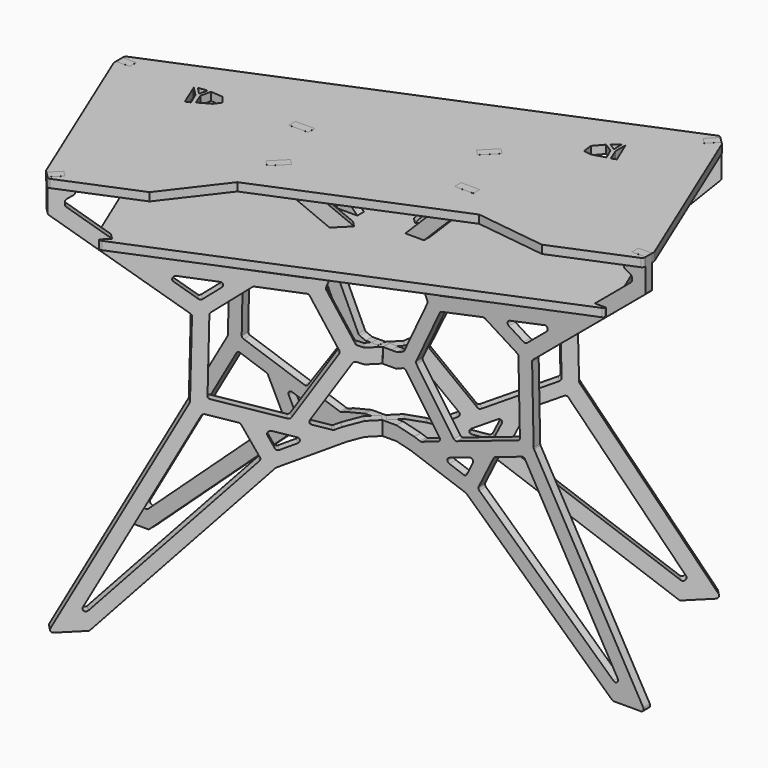
from build123d import *

# Parameters (mm, degrees)
F6_DEPTH  = 9.525
F7_DEPTH  = 9.525
F8_W      = 37.281513
F8_H      = 19.064931
F8_W_2    = 33.670588
F8_H_2    = 19.051635
F9_DEPTH  = 19.05
F10_DEPTH = 9.525
F11_DEPTH = 9.525
F13_DEPTH = 19.05


with BuildPart() as f6:
    # F4 (on face) → F6 (new body, symmetric)
    with BuildSketch(Plane(origin=(-60.899116, 60.899116, 0), x_dir=(-0.707107, -0.707107, 0), z_dir=(-0.707107, 0.707107, 0))):
        with BuildLine():
            ThreePointArc((-524.050759, -541.279179), (-524.021318, -547.612059), (-518.531923, -550.770031))
            Line((-518.531923, -550.770031), (-455.733476, -550.770031))
            ThreePointArc((-455.733476, -550.770031), (-453.422328, -550.334513), (-451.428203, -549.087698))
            Line((-451.428203, -549.087698), (-113.375128, -237.280804))
            ThreePointArc((-113.375128, -237.280804), (-112.346752, -236.509314), (-111.184061, -235.960765))
            Line((-111.184061, -235.960765), (17.108403, -190.661839))
            ThreePointArc((17.108403, -190.661839), (17.415521, -190.562105), (17.727311, -190.478113))
            Line((17.727311, -190.478113), (49.6691, -182.738825))
            Line((49.6691, -182.738825), (63.010707, -182.738825))
            Line((63.010707, -182.738825), (82.060707, -182.738825))
            Line((82.060707, -182.738825), (82.060707, -150.070156))
            Line((82.060707, -150.070156), (72.532403, -150.070156))
            Line((72.532403, -150.070156), (63.0041, -150.070156))
            Line((63.0041, -150.070156), (49.6691, -150.070156))
            Line((49.6691, -150.070156), (8.680172, -160.001506))
            ThreePointArc((8.680172, -160.001506), (8.368381, -160.085499), (8.061264, -160.185232))
            Line((8.061264, -160.185232), (-4.977376, -164.78906))
            ThreePointArc((-4.977376, -164.78906), (-7.049685, -165.151215), (-9.126592, -164.816437))
            Line((-9.126592, -164.816437), (-47.036335, -151.990897))
            ThreePointArc((-47.036335, -151.990897), (-51.032377, -147.963), (-50.213404, -142.348592))
            Line((-50.213404, -142.348592), (27.459192, -30.738162))
            ThreePointArc((27.459192, -30.738162), (30.889647, -28.270442), (35.109132, -28.501994))
            Line((35.109132, -28.501994), (49.6691, -34.555692))
            Line((49.6691, -34.555692), (63.0041, -34.555692))
            Line((63.0041, -34.555692), (82.060707, -34.555692))
            Line((82.060707, -34.555692), (82.060707, -17.363203))
            Line((82.060707, -17.363203), (90.203997, -17.363203))
            Line((90.203997, -17.363203), (90.203997, -34.555692))
            Line((90.203997, -34.555692), (109.253997, -34.555692))
            Line((109.253997, -34.555692), (122.588997, -34.555692))
            Line((122.588997, -34.555692), (137.148964, -28.501994))
            ThreePointArc((137.148964, -28.501994), (141.368449, -28.270442), (144.798905, -30.738162))
            Line((144.798905, -30.738162), (222.471501, -142.348592))
            ThreePointArc((222.471501, -142.348592), (223.290474, -147.963), (219.294432, -151.990897))
            Line((219.294432, -151.990897), (181.384688, -164.816437))
            ThreePointArc((181.384688, -164.816437), (179.307781, -165.151215), (177.235473, -164.78906))
            Line((177.235473, -164.78906), (164.196833, -160.185232))
            ThreePointArc((164.196833, -160.185232), (163.889715, -160.085499), (163.577925, -160.001506))
            Line((163.577925, -160.001506), (122.588997, -150.070156))
            Line((122.588997, -150.070156), (109.253997, -150.070156))
            Line((109.253997, -150.070156), (90.203997, -150.070156))
            Line((90.203997, -150.070156), (90.203997, -182.738825))
            Line((90.203997, -182.738825), (109.253997, -182.738825))
            Line((109.253997, -182.738825), (122.588997, -182.738825))
            Line((122.588997, -182.738825), (154.530785, -190.478113))
            ThreePointArc((154.530785, -190.478113), (154.842576, -190.562105), (155.149693, -190.661839))
            Line((155.149693, -190.661839), (283.442157, -235.960765))
            ThreePointArc((283.442157, -235.960765), (284.604848, -236.509314), (285.633225, -237.280804))
            Line((285.633225, -237.280804), (623.686299, -549.087698))
            ThreePointArc((623.686299, -549.087698), (625.680425, -550.334513), (627.991573, -550.770031))
            Line((627.991573, -550.770031), (690.790019, -550.770031))
            ThreePointArc((690.790019, -550.770031), (696.279414, -547.612059), (696.308855, -541.279179))
            Line((696.308855, -541.279179), (442.307693, -94.970124))
            ThreePointArc((442.307693, -94.970124), (441.704806, -93.51658), (441.477862, -91.959415))
            Line((441.477862, -91.959415), (437.901867, 82.485986))
            ThreePointArc((437.901867, 82.485986), (438.469635, 85.243622), (440.173857, 87.484724))
            Line((440.173857, 87.484724), (699.436917, 304.576421))
            ThreePointArc((699.436917, 304.576421), (701.113909, 306.758418), (701.710241, 309.445015))
            Line((701.710241, 309.445015), (701.710241, 382.679969))
            Line((701.710241, 382.679969), (669.960241, 382.679969))
            Line((669.960241, 382.679969), (669.960241, 363.629969))
            Line((669.960241, 363.629969), (650.910241, 363.629969))
            Line((650.910241, 363.629969), (650.910241, 348.246143))
            ThreePointArc((650.910241, 348.246143), (651.76098, 345.071143), (654.085241, 342.746882))
            Line((654.085241, 342.746882), (666.785241, 335.414534))
            ThreePointArc((666.785241, 335.414534), (669.109502, 333.090272), (669.960241, 329.915272))
            Line((669.960241, 329.915272), (669.960241, 324.270246))
            ThreePointArc((669.960241, 324.270246), (669.363909, 321.583649), (667.686917, 319.401652))
            Line((667.686917, 319.401652), (584.00339, 249.329969))
            Line((584.00339, 249.329969), (584.00339, 230.279969))
            Line((584.00339, 230.279969), (561.252813, 230.279969))
            Line((561.252813, 230.279969), (544.447581, 216.208252))
            ThreePointArc((544.447581, 216.208252), (543.146665, 215.365659), (541.680373, 214.86333))
            Line((541.680373, 214.86333), (224.215549, 147.959178))
            ThreePointArc((224.215549, 147.959178), (220.027078, 148.51285), (217.113075, 151.572006))
            Line((217.113075, 151.572006), (181.77823, 230.279969))
            Line((181.77823, 230.279969), (181.77823, 249.329969))
            Line((181.77823, 249.329969), (164.173635, 249.329969))
            Line((164.173635, 249.329969), (164.173635, 230.279969))
            Line((164.173635, 230.279969), (146.569041, 230.279969))
            Line((146.569041, 230.279969), (192.90485, 128.059493))
            ThreePointArc((192.90485, 128.059493), (193.471166, 125.397137), (192.870757, 122.742261))
            Line((192.870757, 122.742261), (139.352752, 8.592927))
            ThreePointArc((139.352752, 8.592927), (137.992687, 6.699867), (136.041152, 5.425127))
            Line((136.041152, 5.425127), (122.58239, -0.170715))
            Line((122.58239, -0.170715), (76.599707, -0.170715))
            Line((76.599707, -0.170715), (63.0041, -0.170715))
            Line((63.0041, -0.170715), (49.6691, -0.170715))
            Line((49.6691, -0.170715), (36.210337, 5.425127))
            ThreePointArc((36.210337, 5.425127), (34.258802, 6.699867), (32.898738, 8.592927))
            Line((32.898738, 8.592927), (-20.619268, 122.742261))
            ThreePointArc((-20.619268, 122.742261), (-21.219676, 125.397137), (-20.65336, 128.059493))
            Line((-20.65336, 128.059493), (25.682449, 230.279969))
            Line((25.682449, 230.279969), (8.081158, 230.279969))
            Line((8.081158, 230.279969), (8.081158, 249.329969))
            Line((8.081158, 249.329969), (-9.520133, 249.329969))
            Line((-9.520133, 249.329969), (-9.520133, 230.279969))
            Line((-9.520133, 230.279969), (-44.854979, 151.572006))
            ThreePointArc((-44.854979, 151.572006), (-47.768981, 148.51285), (-51.957452, 147.959178))
            Line((-51.957452, 147.959178), (-369.422277, 214.86333))
            ThreePointArc((-369.422277, 214.86333), (-370.888568, 215.365659), (-372.189485, 216.208252))
            Line((-372.189485, 216.208252), (-388.994717, 230.279969))
            Line((-388.994717, 230.279969), (-411.745294, 230.279969))
            Line((-411.745294, 230.279969), (-411.745294, 249.329969))
            Line((-411.745294, 249.329969), (-495.428821, 319.401652))
            ThreePointArc((-495.428821, 319.401652), (-497.105813, 321.583649), (-497.702145, 324.270246))
            Line((-497.702145, 324.270246), (-497.702145, 329.915272))
            ThreePointArc((-497.702145, 329.915272), (-496.851406, 333.090272), (-494.527145, 335.414534))
            Line((-494.527145, 335.414534), (-481.827145, 342.746882))
            ThreePointArc((-481.827145, 342.746882), (-479.502883, 345.071143), (-478.652145, 348.246143))
            Line((-478.652145, 348.246143), (-478.652145, 363.629969))
            Line((-478.652145, 363.629969), (-497.702145, 363.629969))
            Line((-497.702145, 363.629969), (-497.702145, 382.679969))
            Line((-497.702145, 382.679969), (-529.452145, 382.679969))
            Line((-529.452145, 382.679969), (-529.452145, 309.445015))
            ThreePointArc((-529.452145, 309.445015), (-528.855813, 306.758418), (-527.178821, 304.576421))
            Line((-527.178821, 304.576421), (-267.915761, 87.484724))
            ThreePointArc((-267.915761, 87.484724), (-266.211538, 85.243622), (-265.64377, 82.485986))
            Line((-265.64377, 82.485986), (-269.219766, -91.959415))
            ThreePointArc((-269.219766, -91.959415), (-269.446709, -93.51658), (-270.049596, -94.970124))
            Line((-270.049596, -94.970124), (-524.050759, -541.279179))
        make_face()
        with BuildLine():
            Line((-142.797785, -221.225695), (-454.974453, -509.165206))
            ThreePointArc((-454.974453, -509.165206), (-463.230857, -509.468562), (-464.798562, -501.356687))
            Line((-464.798562, -501.356687), (-249.208399, -122.540144))
            ThreePointArc((-249.208399, -122.540144), (-245.947784, -119.746105), (-241.654553, -119.665912))
            Line((-241.654553, -119.665912), (-179.868397, -140.569268))
            ThreePointArc((-179.868397, -140.569268), (-177.727036, -141.801003), (-176.217746, -143.756674))
            Line((-176.217746, -143.756674), (-141.417398, -213.73035))
            ThreePointArc((-141.417398, -213.73035), (-140.858081, -217.708139), (-142.797785, -221.225695))
        make_face(mode=Mode.SUBTRACT)
        with BuildLine():
            Line((-72.845969, -188.752856), (-106.280271, -200.55821))
            ThreePointArc((-106.280271, -200.55821), (-110.778857, -200.455843), (-114.080137, -197.39818))
            Line((-114.080137, -197.39818), (-127.902653, -169.605005))
            ThreePointArc((-127.902653, -169.605005), (-127.00034, -162.600956), (-120.181982, -160.762244))
            Line((-120.181982, -160.762244), (-72.925165, -176.750065))
            ThreePointArc((-72.925165, -176.750065), (-68.610313, -182.723252), (-72.845969, -188.752856))
        make_face(mode=Mode.SUBTRACT)
        with BuildLine():
            Line((300.160749, -169.605005), (286.338234, -197.39818))
            ThreePointArc((286.338234, -197.39818), (283.036953, -200.455843), (278.538367, -200.55821))
            Line((278.538367, -200.55821), (245.104066, -188.752856))
            ThreePointArc((245.104066, -188.752856), (240.86841, -182.723252), (245.183262, -176.750065))
            Line((245.183262, -176.750065), (292.440078, -160.762244))
            ThreePointArc((292.440078, -160.762244), (299.258436, -162.600956), (300.160749, -169.605005))
        make_face(mode=Mode.SUBTRACT)
        with BuildLine():
            Line((313.675494, -213.73035), (348.475843, -143.756674))
            ThreePointArc((348.475843, -143.756674), (349.985132, -141.801003), (352.126494, -140.569268))
            Line((352.126494, -140.569268), (413.91265, -119.665912))
            ThreePointArc((413.91265, -119.665912), (418.205881, -119.746105), (421.466495, -122.540144))
            Line((421.466495, -122.540144), (637.056659, -501.356687))
            ThreePointArc((637.056659, -501.356687), (635.488953, -509.468562), (627.23255, -509.165206))
            Line((627.23255, -509.165206), (315.055882, -221.225695))
            ThreePointArc((315.055882, -221.225695), (313.116178, -217.708139), (313.675494, -213.73035))
        make_face(mode=Mode.SUBTRACT)
        with BuildLine():
            ThreePointArc((-299.692464, 155.503495), (-301.326976, 163.147849), (-294.30632, 166.585606))
            Line((-294.30632, 166.585606), (-213.757912, 149.610425))
            ThreePointArc((-213.757912, 149.610425), (-208.815417, 144.50842), (-211.696495, 138.015493))
            Line((-211.696495, 138.015493), (-246.177685, 116.416685))
            ThreePointArc((-246.177685, 116.416685), (-249.984783, 115.463101), (-253.625247, 116.929506))
            Line((-253.625247, 116.929506), (-299.692464, 155.503495))
        make_face(mode=Mode.SUBTRACT)
        with BuildLine():
            ThreePointArc((-55.429325, 116.243453), (-52.795308, 115.007027), (-50.989332, 112.725525))
            Line((-50.989332, 112.725525), (3.650307, -3.816157))
            ThreePointArc((3.650307, -3.816157), (4.228035, -7.0495), (3.112925, -10.138967))
            Line((3.112925, -10.138967), (-83.623276, -134.773202))
            ThreePointArc((-83.623276, -134.773202), (-86.848167, -137.177033), (-90.870365, -137.161065))
            Line((-90.870365, -137.161065), (-232.992888, -89.078488))
            ThreePointArc((-232.992888, -89.078488), (-235.976659, -86.953691), (-237.290389, -83.534368))
            Line((-237.290389, -83.534368), (-233.870927, 83.274967))
            ThreePointArc((-233.870927, 83.274967), (-233.045972, 86.277094), (-230.893146, 88.52624))
            Line((-230.893146, 88.52624), (-155.783889, 135.574221))
            ThreePointArc((-155.783889, 135.574221), (-153.524515, 136.444769), (-151.103535, 136.406323))
            Line((-151.103535, 136.406323), (-55.429325, 116.243453))
        make_face(mode=Mode.SUBTRACT)
        with BuildLine():
            Line((328.041986, 135.574221), (403.151243, 88.52624))
            ThreePointArc((403.151243, 88.52624), (405.304068, 86.277094), (406.129023, 83.274967))
            Line((406.129023, 83.274967), (409.548485, -83.534368))
            ThreePointArc((409.548485, -83.534368), (408.234756, -86.953691), (405.250984, -89.078488))
            Line((405.250984, -89.078488), (263.128461, -137.161065))
            ThreePointArc((263.128461, -137.161065), (259.106264, -137.177033), (255.881372, -134.773202))
            Line((255.881372, -134.773202), (169.145172, -10.138967))
            ThreePointArc((169.145172, -10.138967), (168.030062, -7.0495), (168.60779, -3.816157))
            Line((168.60779, -3.816157), (223.247429, 112.725525))
            ThreePointArc((223.247429, 112.725525), (225.053405, 115.007027), (227.687422, 116.243453))
            Line((227.687422, 116.243453), (323.361632, 136.406323))
            ThreePointArc((323.361632, 136.406323), (325.782612, 136.444769), (328.041986, 135.574221))
        make_face(mode=Mode.SUBTRACT)
        with BuildLine():
            Line((471.950561, 155.503495), (425.883343, 116.929506))
            ThreePointArc((425.883343, 116.929506), (422.24288, 115.463101), (418.435782, 116.416685))
            Line((418.435782, 116.416685), (383.954591, 138.015493))
            ThreePointArc((383.954591, 138.015493), (381.073514, 144.50842), (386.016009, 149.610425))
            Line((386.016009, 149.610425), (466.564417, 166.585606))
            ThreePointArc((466.564417, 166.585606), (473.585072, 163.147849), (471.950561, 155.503495))
        make_face(mode=Mode.SUBTRACT)
    extrude(amount=F6_DEPTH, both=True)


with BuildPart() as f7:
    # F5 (on Front) → F7 (new body, symmetric)
    with BuildSketch(Plane.XZ):
        with BuildLine():
            ThreePointArc((-731.772078, -541.282135), (-731.742637, -547.615015), (-726.253242, -550.772987))
            Line((-726.253242, -550.772987), (-663.454796, -550.772987))
            ThreePointArc((-663.454796, -550.772987), (-661.143648, -550.337469), (-659.149522, -549.090655))
            Line((-659.149522, -549.090655), (-321.096448, -237.283761))
            ThreePointArc((-321.096448, -237.283761), (-320.068071, -236.51227), (-318.90538, -235.963721))
            Line((-318.90538, -235.963721), (-190.612916, -190.664795))
            ThreePointArc((-190.612916, -190.664795), (-190.305799, -190.565061), (-189.994008, -190.481069))
            Line((-189.994008, -190.481069), (-158.05222, -182.741781))
            Line((-158.05222, -182.741781), (-131.121613, -182.741781))
            Line((-131.121613, -182.741781), (-85.132323, -182.741781))
            Line((-85.132323, -182.741781), (-53.190534, -190.481069))
            ThreePointArc((-53.190534, -190.481069), (-52.878744, -190.565061), (-52.571626, -190.664795))
            Line((-52.571626, -190.664795), (75.720838, -235.963721))
            ThreePointArc((75.720838, -235.963721), (76.883529, -236.51227), (77.911905, -237.283761))
            Line((77.911905, -237.283761), (415.96498, -549.090655))
            ThreePointArc((415.96498, -549.090655), (417.959105, -550.337469), (420.270253, -550.772987))
            Line((420.270253, -550.772987), (483.0687, -550.772987))
            ThreePointArc((483.0687, -550.772987), (488.558095, -547.615015), (488.587536, -541.282135))
            Line((488.587536, -541.282135), (234.586373, -94.97308))
            ThreePointArc((234.586373, -94.97308), (233.983486, -93.519536), (233.756543, -91.962371))
            Line((233.756543, -91.962371), (230.180547, 82.48303))
            ThreePointArc((230.180547, 82.48303), (230.748315, 85.240665), (232.452538, 87.481768))
            Line((232.452538, 87.481768), (491.715598, 304.573464))
            ThreePointArc((491.715598, 304.573464), (493.39259, 306.755462), (493.988922, 309.442059))
            Line((493.988922, 309.442059), (493.988922, 382.677013))
            Line((493.988922, 382.677013), (462.238922, 382.677013))
            Line((462.238922, 382.677013), (462.238922, 363.627013))
            Line((462.238922, 363.627013), (443.188922, 363.627013))
            Line((443.188922, 363.627013), (443.188922, 348.243187))
            ThreePointArc((443.188922, 348.243187), (444.03966, 345.068187), (446.363922, 342.743926))
            Line((446.363922, 342.743926), (459.063922, 335.411577))
            ThreePointArc((459.063922, 335.411577), (461.388183, 333.087316), (462.238922, 329.912316))
            Line((462.238922, 329.912316), (462.238922, 324.26729))
            ThreePointArc((462.238922, 324.26729), (461.64259, 321.580693), (459.965598, 319.398696))
            Line((459.965598, 319.398696), (376.282071, 249.327013))
            Line((376.282071, 249.327013), (376.282071, 230.277013))
            Line((376.282071, 230.277013), (353.531494, 230.277013))
            Line((353.531494, 230.277013), (336.726262, 216.205296))
            ThreePointArc((336.726262, 216.205296), (335.425345, 215.362703), (333.959054, 214.860373))
            Line((333.959054, 214.860373), (16.494229, 147.956222))
            ThreePointArc((16.494229, 147.956222), (12.305758, 148.509894), (9.391756, 151.56905))
            Line((9.391756, 151.56905), (-25.94309, 230.277013))
            Line((-25.94309, 230.277013), (-25.94309, 249.335923))
            Line((-25.94309, 249.335923), (-42.760202, 249.335923))
            Line((-42.760202, 249.335923), (-42.760202, 230.283131))
            Line((-42.760202, 230.283131), (-59.577315, 230.28925))
            Line((-59.577315, 230.28925), (-13.241506, 128.068774))
            ThreePointArc((-13.241506, 128.068774), (-12.67519, 125.406418), (-13.275599, 122.751542))
            Line((-13.275599, 122.751542), (-66.793604, 8.602208))
            ThreePointArc((-66.793604, 8.602208), (-68.153669, 6.709148), (-70.105204, 5.434408))
            Line((-70.105204, 5.434408), (-83.563966, -0.161434))
            Line((-83.563966, -0.161434), (-90.43774, -0.161434))
            Line((-90.43774, -0.161434), (-96.898966, -0.161434))
            Line((-96.898966, -0.161434), (-115.948282, 0))
            Line((-115.948282, 0), (-116.830051, 0))
            Line((-116.830051, 0), (-116.830051, -17.357249))
            Line((-116.830051, -17.357249), (-116.830051, -24.2266))
            Line((-116.830051, -24.2266), (-121.592551, -24.2266))
            Line((-121.592551, -24.2266), (-126.355051, -24.2266))
            Line((-126.355051, -24.2266), (-126.355051, -17.357249))
            Line((-126.355051, -17.357249), (-126.355051, -0.014853))
            Line((-126.355051, -0.014853), (-143.68701, -0.16476))
            Line((-143.68701, -0.16476), (-157.02201, -0.16476))
            Line((-157.02201, -0.16476), (-170.480773, 5.431081))
            ThreePointArc((-170.480773, 5.431081), (-172.432308, 6.705821), (-173.792373, 8.598882))
            Line((-173.792373, 8.598882), (-227.310378, 122.748216))
            ThreePointArc((-227.310378, 122.748216), (-227.910787, 125.403091), (-227.34447, 128.065448))
            Line((-227.34447, 128.065448), (-181.008661, 230.285923))
            Line((-181.008661, 230.285923), (-199.640162, 230.285923))
            Line((-199.640162, 230.285923), (-199.640162, 249.335923))
            Line((-199.640162, 249.335923), (-218.271662, 249.335923))
            Line((-218.271662, 249.335923), (-218.271662, 230.285923))
            Line((-218.271662, 230.285923), (-252.548061, 151.632885))
            ThreePointArc((-252.548061, 151.632885), (-255.459236, 148.525803), (-259.678772, 147.956222))
            Line((-259.678772, 147.956222), (-577.143596, 214.860373))
            ThreePointArc((-577.143596, 214.860373), (-578.609888, 215.362703), (-579.910804, 216.205296))
            Line((-579.910804, 216.205296), (-596.716036, 230.277013))
            Line((-596.716036, 230.277013), (-619.466613, 230.277013))
            Line((-619.466613, 230.277013), (-619.466613, 249.327013))
            Line((-619.466613, 249.327013), (-703.15014, 319.398696))
            ThreePointArc((-703.15014, 319.398696), (-704.827132, 321.580693), (-705.423464, 324.26729))
            Line((-705.423464, 324.26729), (-705.423464, 329.912316))
            ThreePointArc((-705.423464, 329.912316), (-704.572725, 333.087316), (-702.248464, 335.411577))
            Line((-702.248464, 335.411577), (-689.548464, 342.743926))
            ThreePointArc((-689.548464, 342.743926), (-687.224203, 345.068187), (-686.373464, 348.243187))
            Line((-686.373464, 348.243187), (-686.373464, 363.627013))
            Line((-686.373464, 363.627013), (-705.423464, 363.627013))
            Line((-705.423464, 363.627013), (-705.423464, 382.677013))
            Line((-705.423464, 382.677013), (-737.173464, 382.677013))
            Line((-737.173464, 382.677013), (-737.173464, 309.442059))
            ThreePointArc((-737.173464, 309.442059), (-736.577132, 306.755462), (-734.90014, 304.573464))
            Line((-734.90014, 304.573464), (-475.63708, 87.481768))
            ThreePointArc((-475.63708, 87.481768), (-473.932858, 85.240665), (-473.36509, 82.48303))
            Line((-473.36509, 82.48303), (-476.941085, -91.962371))
            ThreePointArc((-476.941085, -91.962371), (-477.168029, -93.519536), (-477.770916, -94.97308))
            Line((-477.770916, -94.97308), (-731.772078, -541.282135))
        make_face()
        with BuildLine():
            Line((-350.519105, -221.228651), (-662.695773, -509.168162))
            ThreePointArc((-662.695773, -509.168162), (-670.952176, -509.471518), (-672.519882, -501.359643))
            Line((-672.519882, -501.359643), (-456.929718, -122.543101))
            ThreePointArc((-456.929718, -122.543101), (-453.669104, -119.749061), (-449.375873, -119.668869))
            Line((-449.375873, -119.668869), (-387.589717, -140.572224))
            ThreePointArc((-387.589717, -140.572224), (-385.448355, -141.80396), (-383.939066, -143.75963))
            Line((-383.939066, -143.75963), (-349.138717, -213.733306))
            ThreePointArc((-349.138717, -213.733306), (-348.579401, -217.711096), (-350.519105, -221.228651))
        make_face(mode=Mode.SUBTRACT)
        with BuildLine():
            Line((-280.567289, -188.755812), (-314.00159, -200.561166))
            ThreePointArc((-314.00159, -200.561166), (-318.500176, -200.4588), (-321.801457, -197.401137))
            Line((-321.801457, -197.401137), (-335.623972, -169.607961))
            ThreePointArc((-335.623972, -169.607961), (-334.721659, -162.603912), (-327.903301, -160.7652))
            Line((-327.903301, -160.7652), (-280.646485, -176.753021))
            ThreePointArc((-280.646485, -176.753021), (-276.331633, -182.726208), (-280.567289, -188.755812))
        make_face(mode=Mode.SUBTRACT)
        with BuildLine():
            Line((-158.05222, -150.073112), (-199.041148, -160.004463))
            ThreePointArc((-199.041148, -160.004463), (-199.352938, -160.088455), (-199.660056, -160.188189))
            Line((-199.660056, -160.188189), (-212.698696, -164.792016))
            ThreePointArc((-212.698696, -164.792016), (-214.771004, -165.154171), (-216.847911, -164.819393))
            Line((-216.847911, -164.819393), (-254.757655, -151.993853))
            ThreePointArc((-254.757655, -151.993853), (-258.753697, -147.965957), (-257.934724, -142.351548))
            Line((-257.934724, -142.351548), (-180.262128, -30.741119))
            ThreePointArc((-180.262128, -30.741119), (-176.831672, -28.273398), (-172.612187, -28.504951))
            Line((-172.612187, -28.504951), (-158.05222, -34.558648))
            Line((-158.05222, -34.558648), (-85.132323, -34.558648))
            Line((-85.132323, -34.558648), (-70.572355, -28.504951))
            ThreePointArc((-70.572355, -28.504951), (-66.35287, -28.273398), (-62.922415, -30.741119))
            Line((-62.922415, -30.741119), (14.750181, -142.351548))
            ThreePointArc((14.750181, -142.351548), (15.569154, -147.965957), (11.573112, -151.993853))
            Line((11.573112, -151.993853), (-26.336631, -164.819393))
            ThreePointArc((-26.336631, -164.819393), (-28.413538, -165.154171), (-30.485847, -164.792016))
            Line((-30.485847, -164.792016), (-43.524487, -160.188189))
            ThreePointArc((-43.524487, -160.188189), (-43.831604, -160.088455), (-44.143395, -160.004463))
            Line((-44.143395, -160.004463), (-85.132323, -150.073112))
            Line((-85.132323, -150.073112), (-131.121613, -150.073112))
            Line((-131.121613, -150.073112), (-158.05222, -150.073112))
        make_face(mode=Mode.SUBTRACT)
        with BuildLine():
            Line((92.43943, -169.607961), (78.616914, -197.401137))
            ThreePointArc((78.616914, -197.401137), (75.315634, -200.4588), (70.817048, -200.561166))
            Line((70.817048, -200.561166), (37.382746, -188.755812))
            ThreePointArc((37.382746, -188.755812), (33.14709, -182.726208), (37.461942, -176.753021))
            Line((37.461942, -176.753021), (84.718759, -160.7652))
            ThreePointArc((84.718759, -160.7652), (91.537117, -162.603912), (92.43943, -169.607961))
        make_face(mode=Mode.SUBTRACT)
        with BuildLine():
            Line((105.954175, -213.733306), (140.754523, -143.75963))
            ThreePointArc((140.754523, -143.75963), (142.263813, -141.80396), (144.405175, -140.572224))
            Line((144.405175, -140.572224), (206.19133, -119.668869))
            ThreePointArc((206.19133, -119.668869), (210.484561, -119.749061), (213.745176, -122.543101))
            Line((213.745176, -122.543101), (429.335339, -501.359643))
            ThreePointArc((429.335339, -501.359643), (427.767634, -509.471518), (419.51123, -509.168162))
            Line((419.51123, -509.168162), (107.334562, -221.228651))
            ThreePointArc((107.334562, -221.228651), (105.394858, -217.711096), (105.954175, -213.733306))
        make_face(mode=Mode.SUBTRACT)
        with BuildLine():
            ThreePointArc((-507.413784, 155.500538), (-509.048295, 163.144893), (-502.02764, 166.58265))
            Line((-502.02764, 166.58265), (-421.479232, 149.607469))
            ThreePointArc((-421.479232, 149.607469), (-416.536737, 144.505464), (-419.417814, 138.012537))
            Line((-419.417814, 138.012537), (-453.899005, 116.413729))
            ThreePointArc((-453.899005, 116.413729), (-457.706103, 115.460145), (-461.346566, 116.926549))
            Line((-461.346566, 116.926549), (-507.413784, 155.500538))
        make_face(mode=Mode.SUBTRACT)
        with BuildLine():
            ThreePointArc((-263.150645, 116.240497), (-260.516628, 115.00407), (-258.710652, 112.722569))
            Line((-258.710652, 112.722569), (-204.071013, -3.819113))
            ThreePointArc((-204.071013, -3.819113), (-203.493285, -7.052456), (-204.608395, -10.141923))
            Line((-204.608395, -10.141923), (-291.344595, -134.776159))
            ThreePointArc((-291.344595, -134.776159), (-294.569487, -137.179989), (-298.591684, -137.164021))
            Line((-298.591684, -137.164021), (-440.714207, -89.081444))
            ThreePointArc((-440.714207, -89.081444), (-443.697979, -86.956647), (-445.011708, -83.537324))
            Line((-445.011708, -83.537324), (-441.592246, 83.272011))
            ThreePointArc((-441.592246, 83.272011), (-440.767291, 86.274138), (-438.614466, 88.523284))
            Line((-438.614466, 88.523284), (-363.505209, 135.571265))
            ThreePointArc((-363.505209, 135.571265), (-361.245835, 136.441813), (-358.824855, 136.403367))
            Line((-358.824855, 136.403367), (-263.150645, 116.240497))
        make_face(mode=Mode.SUBTRACT)
        with BuildLine():
            Line((120.320666, 135.571265), (195.429923, 88.523284))
            ThreePointArc((195.429923, 88.523284), (197.582749, 86.274138), (198.407704, 83.272011))
            Line((198.407704, 83.272011), (201.827166, -83.537324))
            ThreePointArc((201.827166, -83.537324), (200.513436, -86.956647), (197.529665, -89.081444))
            Line((197.529665, -89.081444), (55.407142, -137.164021))
            ThreePointArc((55.407142, -137.164021), (51.384944, -137.179989), (48.160053, -134.776159))
            Line((48.160053, -134.776159), (-38.576148, -10.141923))
            ThreePointArc((-38.576148, -10.141923), (-39.691258, -7.052456), (-39.11353, -3.819113))
            Line((-39.11353, -3.819113), (15.526109, 112.722569))
            ThreePointArc((15.526109, 112.722569), (17.332085, 115.00407), (19.966102, 116.240497))
            Line((19.966102, 116.240497), (115.640312, 136.403367))
            ThreePointArc((115.640312, 136.403367), (118.061292, 136.441813), (120.320666, 135.571265))
        make_face(mode=Mode.SUBTRACT)
        with BuildLine():
            Line((264.229241, 155.500538), (218.162024, 116.926549))
            ThreePointArc((218.162024, 116.926549), (214.52156, 115.460145), (210.714462, 116.413729))
            Line((210.714462, 116.413729), (176.233272, 138.012537))
            ThreePointArc((176.233272, 138.012537), (173.352194, 144.505464), (178.294689, 149.607469))
            Line((178.294689, 149.607469), (258.843097, 166.58265))
            ThreePointArc((258.843097, 166.58265), (265.863753, 163.144893), (264.229241, 155.500538))
        make_face(mode=Mode.SUBTRACT)
    extrude(amount=F7_DEPTH, both=True)


with BuildPart() as f9:
    # F8 (on offset) → F9 (new body)
    with BuildSketch(Plane.XY.offset(230.234668)):
        with BuildLine():
            Line((234.283078, 377.871527), (-640.737263, 15.450086))
            ThreePointArc((-640.737263, 15.450086), (-642.797383, 14.073627), (-644.173938, 12.013571))
            Line((-644.173938, 12.013571), (-645.187096, 9.567752))
            Line((-645.187096, 9.567752), (-619.439542, 9.525267))
            Line((-619.439542, 9.525267), (-619.439542, -9.543091))
            Line((-619.439542, -9.543091), (-646.895348, -9.540451))
            Line((-646.895348, -9.540451), (-498.745799, -363.459061))
            Line((-498.745799, -363.459061), (-480.592906, -345.297128))
            Line((-480.592906, -345.297128), (-467.109323, -358.788699))
            Line((-467.109323, -358.788699), (-483.910549, -375.645465))
            Line((-483.910549, -375.645465), (-481.457992, -376.663494))
            ThreePointArc((-481.457992, -376.663494), (-479.028314, -377.148674), (-476.597914, -376.667124))
            Line((-476.597914, -376.667124), (397.364536, -15.42455))
            ThreePointArc((397.364536, -15.42455), (399.425651, -14.049582), (400.803697, -11.990522))
            Line((400.803697, -11.990522), (401.810107, -9.565957))
            Line((401.810107, -9.565957), (376.218528, -9.559277))
            Line((376.218528, -9.559277), (376.218528, 9.536125))
            Line((376.218528, 9.536125), (403.597767, 9.566671))
            Line((403.597767, 9.566671), (256.359916, 364.653467))
            Line((256.359916, 364.653467), (236.980885, 345.253676))
            Line((236.980885, 345.253676), (223.499671, 358.78405))
            Line((223.499671, 358.78405), (241.57475, 376.864149))
            Line((241.57475, 376.864149), (239.143157, 377.871414))
            ThreePointArc((239.143157, 377.871414), (236.713129, 378.354835), (234.283078, 377.871527))
        make_face()
        Polygon((-157.71706, -49.46328), (-182.702452, -74.37285), (-196.277778, -60.756203), (-171.292386, -35.846633), align=None, mode=Mode.SUBTRACT)
        with Locations((-199.661433, 0.016484)):
            Rectangle(F8_W, F8_H, mode=Mode.SUBTRACT)
        with Locations((-42.759263, 0.030013)):
            Rectangle(F8_W_2, F8_H_2, mode=Mode.SUBTRACT)
        Polygon((-47.431946, 60.909837), (-72.331481, 36.013104), (-85.796919, 49.480057), (-60.897384, 74.376791), align=None, mode=Mode.SUBTRACT)
    extrude(amount=F9_DEPTH)


with BuildPart() as f10:
    # F5 (on Front) → F10 (new body, symmetric)
    with BuildSketch(Plane.XZ):
        Polygon((-221.060593, 249.335923), (-218.271662, 249.335923), (-199.640162, 249.335923), (-199.640162, 230.285923), (-181.008661, 230.285923), (-181.008661, 249.335923), (-176.159312, 249.335923), (-290.459312, 363.635923), (-290.459312, 382.685923), (-335.360593, 382.685923), (-335.360593, 363.635923), align=None)
        Polygon((-42.760202, 249.335923), (-25.94309, 249.335923), (-21.09374, 249.335923), (93.20626, 363.635923), (93.20626, 382.685923), (49.873336, 382.685923), (49.873336, 363.635923), (-64.426664, 249.335923), (-59.577315, 249.335923), (-59.577315, 230.28925), (-42.760202, 230.283131), align=None)
    extrude(amount=F10_DEPTH, both=True)


with BuildPart() as f11:
    # F4 (on face) → F11 (new body, symmetric)
    with BuildSketch(Plane(origin=(-60.899116, 60.899116, 0), x_dir=(-0.707107, -0.707107, 0), z_dir=(-0.707107, 0.707107, 0))):
        Polygon((146.569041, 249.329969), (146.569041, 230.279969), (164.173635, 230.279969), (164.173635, 249.329969), (181.77823, 249.329969), (186.627579, 249.329969), (300.927579, 363.629969), (300.927579, 382.679969), (256.019691, 382.679969), (256.019691, 363.629969), (141.719691, 249.329969), align=None)
        Polygon((-14.369483, 249.329969), (-9.520133, 249.329969), (8.081158, 249.329969), (8.081158, 230.279969), (25.682449, 230.279969), (25.682449, 249.329969), (30.531798, 249.329969), (-83.768202, 363.629969), (-83.768202, 382.679969), (-128.669483, 382.679969), (-128.669483, 363.629969), align=None)
    extrude(amount=F11_DEPTH, both=True)


with BuildPart() as f13:
    # F12 (on offset) → F13 (new body)
    with BuildSketch(Plane.XY.offset(363.584668)):
        with BuildLine():
            Line((494.032661, -11.682581), (494.03968, -9.505743))
            Line((494.03968, -9.505743), (462.244928, -9.505743))
            Line((462.244928, -9.505743), (462.238729, 9.565871))
            Line((462.238729, 9.565871), (493.988186, 9.527327))
            Line((493.988186, 9.527327), (493.991775, 14.610591))
            ThreePointArc((493.991775, 14.610591), (493.869955, 15.852935), (493.507447, 17.047442))
            Line((493.507447, 17.047442), (325.214084, 422.888039))
            ThreePointArc((325.214084, 422.888039), (324.624201, 423.989588), (323.83003, 424.954295))
            Line((323.83003, 424.954295), (320.229739, 428.540975))
            Line((320.229739, 428.540975), (297.765158, 406.046366))
            Line((297.765158, 406.046366), (284.268223, 419.524557))
            Line((284.268223, 419.524557), (306.762406, 442.050021))
            Line((306.762406, 442.050021), (305.270648, 443.539707))
            ThreePointArc((305.270648, 443.539707), (302.020129, 445.27491), (298.353278, 444.912961))
            Line((298.353278, 444.912961), (-733.248518, 17.542815))
            ThreePointArc((-733.248518, 17.542815), (-736.104427, 15.194527), (-737.168113, 11.653448))
            Line((-737.168113, 11.653448), (-737.160585, 9.562699))
            Line((-737.160585, 9.562699), (-705.39635, 9.562699))
            Line((-705.39635, 9.562699), (-705.39635, -9.51674))
            Line((-705.39635, -9.51674), (-737.201388, -9.511093))
            Line((-737.201388, -9.511093), (-737.204977, -14.596738))
            ThreePointArc((-737.204977, -14.596738), (-737.083601, -15.836836), (-736.7224, -17.029358))
            Line((-736.7224, -17.029358), (-568.762329, -422.892596))
            ThreePointArc((-568.762329, -422.892596), (-568.174653, -423.992457), (-567.38336, -424.95626))
            Line((-567.38336, -424.95626), (-563.784477, -428.552457))
            Line((-563.784477, -428.552457), (-541.353284, -406.104515))
            Line((-541.353284, -406.104515), (-527.891413, -419.557576))
            Line((-527.891413, -419.557576), (-550.3425, -442.023367))
            Line((-550.3425, -442.023367), (-548.821002, -443.530615))
            ThreePointArc((-548.821002, -443.530615), (-545.576542, -445.250231), (-541.922619, -444.886298))
            Line((-541.922619, -444.886298), (-368.369051, -373.019159))
            Line((-368.369051, -373.019159), (-268.509628, -242.86214))
            Line((-268.509628, -242.86214), (-57.316508, -155.366848))
            Line((-57.316508, -155.366848), (153.876612, -67.871556))
            Line((153.876612, -67.871556), (316.774719, -89.306624))
            Line((316.774719, -89.306624), (490.112125, -17.528996))
            ThreePointArc((490.112125, -17.528996), (492.956649, -15.19876), (494.032661, -11.682581))
        make_face()
        Polygon((-541.997652, -22.450704), (-530.059667, -50.354583), (-540.900155, -54.992417), (-562.607341, -1.846424), align=None, mode=Mode.SUBTRACT)
        Polygon((-555.890438, 1.99315), (-535.554196, 4.814601), (-539.951762, -14.885941), align=None, mode=Mode.SUBTRACT)
        Polygon((-485.180445, -15.781369), (-496.035347, -30.533432), (-523.059569, -45.230919), (-533.139491, -19.317631), (-527.828751, 4.891163), (-499.587626, 2.828009), align=None, mode=Mode.SUBTRACT)
        Polygon((143.500015, 269.253075), (162.007824, 290.683866), (182.883039, 277.323663), (194.08226, 251.874089), (164.581701, 243.1539), (146.474481, 245.907232), align=None, mode=Mode.SUBTRACT)
        Polygon((167.523965, 296.093166), (183.897302, 308.480144), (184.565321, 285.274565), align=None, mode=Mode.SUBTRACT)
        Polygon((191.361591, 281.373024), (191.361591, 310.515702), (213.599131, 257.589429), (202.65488, 253.202054), align=None, mode=Mode.SUBTRACT)
    extrude(amount=F13_DEPTH)


solid = Compound([f6.part, f7.part, f9.part, f10.part, f11.part, f13.part])
